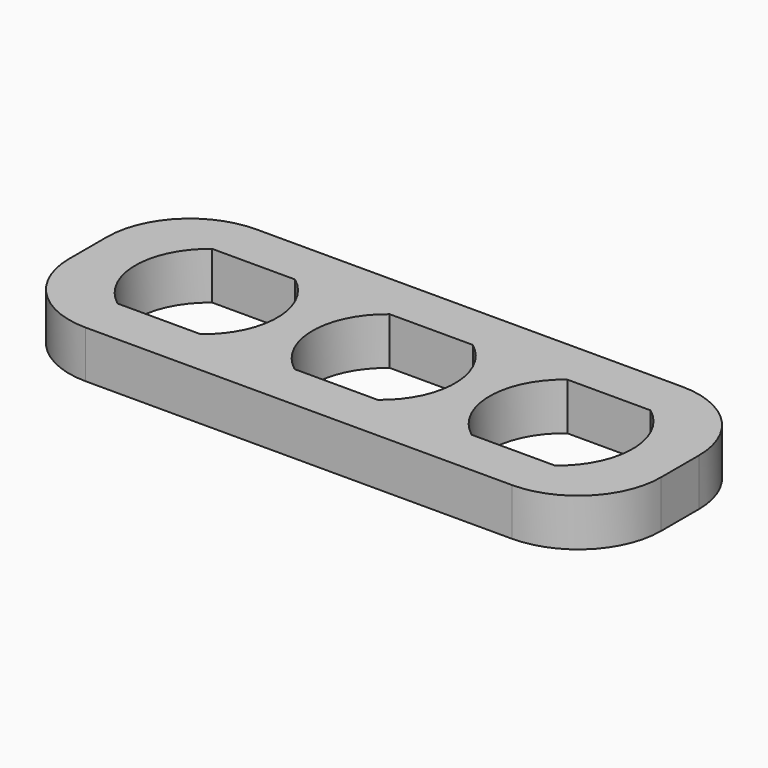
from build123d import *

# Parameters (mm, degrees)
F2_DEPTH = 4


with BuildPart() as f2:
    # F1 (on Top) → F2 (new body)
    with BuildSketch(Plane.XY):
        with BuildLine():
            Line((33.0445, 9.004), (-2.9945, 9.004))
            ThreePointArc((-2.9945, 9.004), (-7.944247, 6.953747), (-9.9945, 2.004))
            Line((-9.9945, 2.004), (-9.9945, -2.004))
            ThreePointArc((-9.9945, -2.004), (-7.944247, -6.953747), (-2.9945, -9.004))
            Line((-2.9945, -9.004), (33.0445, -9.004))
            ThreePointArc((33.0445, -9.004), (37.994247, -6.953747), (40.0445, -2.004))
            Line((40.0445, -2.004), (40.0445, 2.004))
            ThreePointArc((40.0445, 2.004), (37.994247, 6.953747), (33.0445, 9.004))
        make_face()
        with BuildLine():
            ThreePointArc((-3.505, -5.004), (-5.9945, 0), (-3.505, 5.004))
            Line((-3.505, 5.004), (3.505, 5.004))
            ThreePointArc((3.505, 5.004), (5.9945, 0), (3.505, -5.004))
            Line((3.505, -5.004), (-3.505, -5.004))
        make_face(mode=Mode.SUBTRACT)
        with BuildLine():
            ThreePointArc((11.48662, -5.029), (8.9805, 0), (11.48662, 5.029))
            Line((11.48662, 5.029), (18.51338, 5.029))
            ThreePointArc((18.51338, 5.029), (21.0195, 0), (18.51338, -5.029))
            Line((18.51338, -5.029), (11.48662, -5.029))
        make_face(mode=Mode.SUBTRACT)
        with BuildLine():
            ThreePointArc((26.478259, -5.054), (23.9555, 0), (26.478259, 5.054))
            Line((26.478259, 5.054), (33.521741, 5.054))
            ThreePointArc((33.521741, 5.054), (36.0445, 0), (33.521741, -5.054))
            Line((33.521741, -5.054), (26.478259, -5.054))
        make_face(mode=Mode.SUBTRACT)
    extrude(amount=F2_DEPTH)


solid = f2.part
